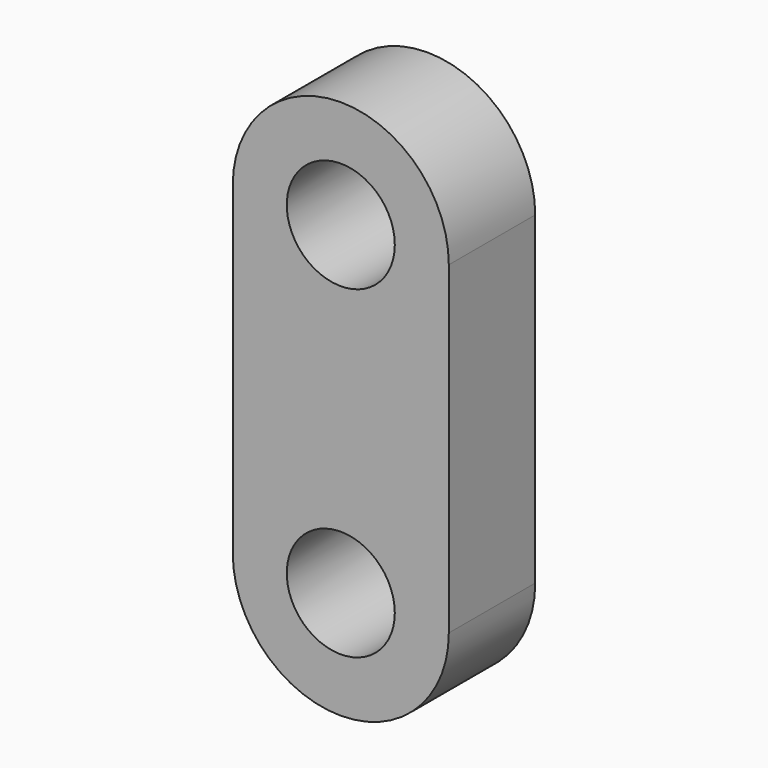
from build123d import *

# Parameters (mm, degrees)
F0_R     = 2.5
F1_DEPTH = 2.5


with BuildPart() as f1:
    # F0 (on Front) → F1 (new body, symmetric)
    with BuildSketch(Plane.XZ):
        with BuildLine():
            Line((5, -15), (5, 0))
            ThreePointArc((5, 0), (0, 5), (-5, 0))
            Line((-5, 0), (-5, -15))
            ThreePointArc((-5, -15), (0, -20), (5, -15))
        make_face()
        with Locations((0, -15)):
            Circle(F0_R, mode=Mode.SUBTRACT)
        Circle(F0_R, mode=Mode.SUBTRACT)
    extrude(amount=F1_DEPTH, both=True)


solid = f1.part
